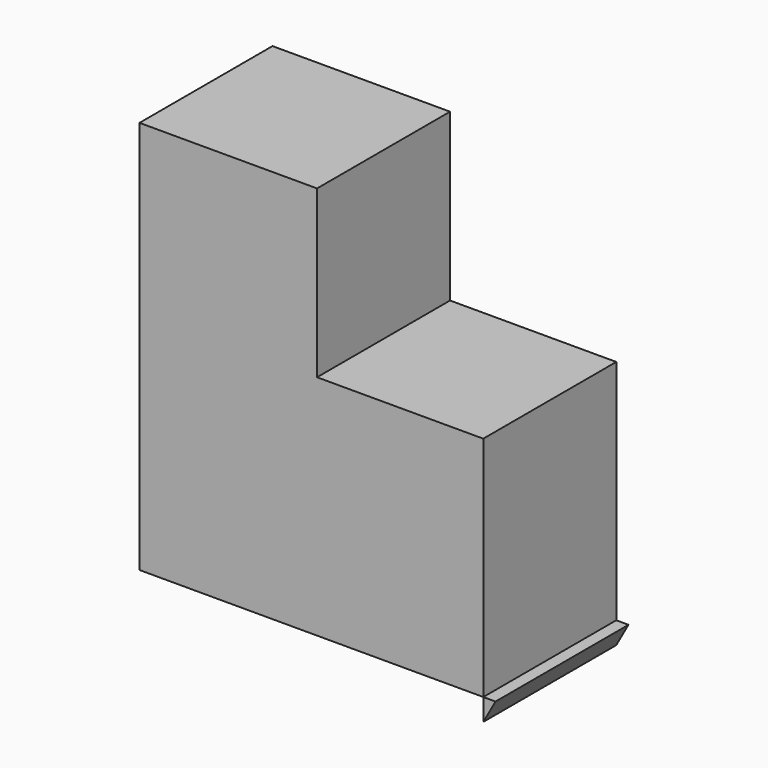
from build123d import *

# Parameters (mm, degrees)
F1_DEPTH = 25.4


with BuildPart() as f1:
    # F0 (on Front) → F1 (new body)
    with BuildSketch(Plane.XZ):
        Polygon((-5.756115, -4.317086), (-7.62457, -4.317086), (-7.62457, -7.665684), align=None)
        Polygon((-33.02457, 55.834316), (-58.42457, 55.834316), (-60.151406, 55.834316), (-60.151406, -4.317086), (-7.62457, -4.317086), (-7.62457, 30.434316), (-33.02457, 30.434316), align=None)
    extrude(amount=F1_DEPTH)


solid = f1.part
